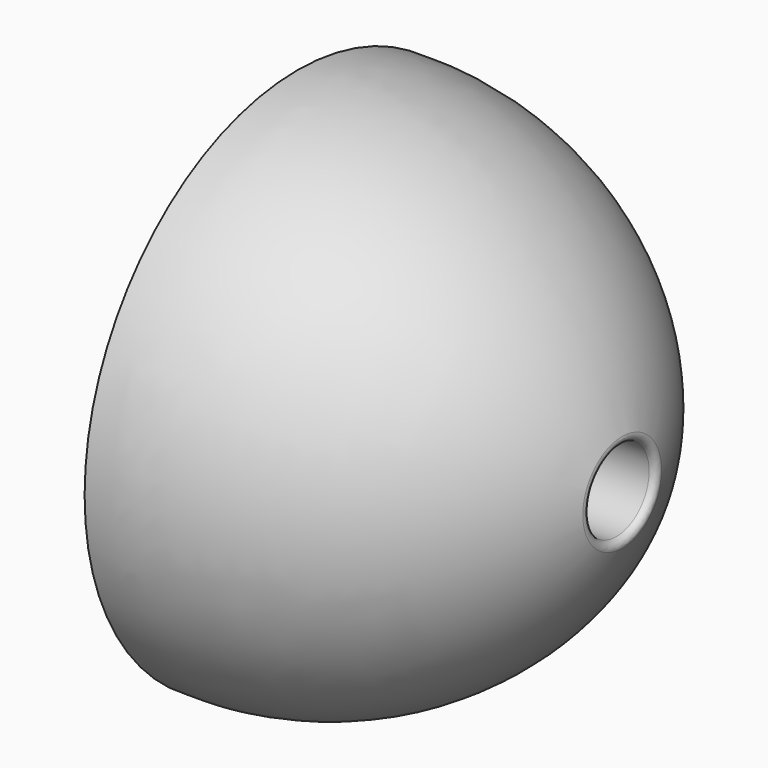
from build123d import *

# Parameters (mm, degrees)
F2_R     = 0.3
F4_DEPTH = 5


with BuildPart() as f1:
    # F0 (on Front) → F1 (revolve)
    with BuildSketch(Plane.XZ):
        with BuildLine():
            Line((44.5714133582, -16.4726869262), (51.7714133582, -16.4726869262))
            ThreePointArc((51.7714133582, -16.4726869262), (45.6026739754, -8.3090351195), (35.7714133582, -5.4726869262))
            Line((35.7714133582, -5.4726869262), (35.7714133582, -7.9726869262))
            Line((35.7714133582, -7.9726869262), (39.5714133582, -7.9726869262))
            Line((39.5714133582, -7.9726869262), (39.5714133582, -9.9726869262))
            Line((39.5714133582, -9.9726869262), (44.5714133582, -9.9726869262))
            Line((44.5714133582, -9.9726869262), (44.5714133582, -16.4726869262))
        make_face()
    revolve(axis=Axis((45.5371495336, 0, -18.4726869262), (1, 0, 0)))

    # F2
    f2_edges = [f1.edges().sort_by_distance(p)[0] for p in [
        (51.771413, 0, -20.472687),
    ]]
    fillet(f2_edges, radius=F2_R)

    # F3 (on face) → F4 (join)
    with BuildSketch(Plane(origin=(44.5714133582, 0, 0), x_dir=(0, -1, 0), z_dir=(-1, 0, 0))):
        with BuildLine():
            Line((0, -9.9726869262), (7.3612159322, -14.2226869262))
            ThreePointArc((7.3612159322, -14.2226869262), (4.25, -11.1114709941), (0, -9.9726869262))
        make_face()
        with BuildLine():
            Line((-7.3612159322, -14.2226869262), (0, -9.9726869262))
            ThreePointArc((0, -9.9726869262), (-4.25, -11.1114709941), (-7.3612159322, -14.2226869262))
        make_face()
        with BuildLine():
            Line((-7.3612159322, -22.7226869262), (-7.3612159322, -14.2226869262))
            ThreePointArc((-7.3612159322, -14.2226869262), (-8.5, -18.4726869262), (-7.3612159322, -22.7226869262))
        make_face()
        with BuildLine():
            ThreePointArc((-7.3612159322, -22.7226869262), (-4.25, -25.8339028584), (0, -26.9726869262))
            Line((0, -26.9726869262), (-7.3612159322, -22.7226869262))
        make_face()
        with BuildLine():
            ThreePointArc((0, -26.9726869262), (4.25, -25.8339028584), (7.3612159322, -22.7226869262))
            Line((7.3612159322, -22.7226869262), (0, -26.9726869262))
        make_face()
        with BuildLine():
            ThreePointArc((7.3612159322, -22.7226869262), (8.2103695235, -20.6726488096), (8.5, -18.4726869262))
            ThreePointArc((8.5, -18.4726869262), (8.2103695235, -16.2727250429), (7.3612159322, -14.2226869262))
            Line((7.3612159322, -14.2226869262), (7.3612159322, -22.7226869262))
        make_face()
    extrude(amount=F4_DEPTH)


solid = f1.part
